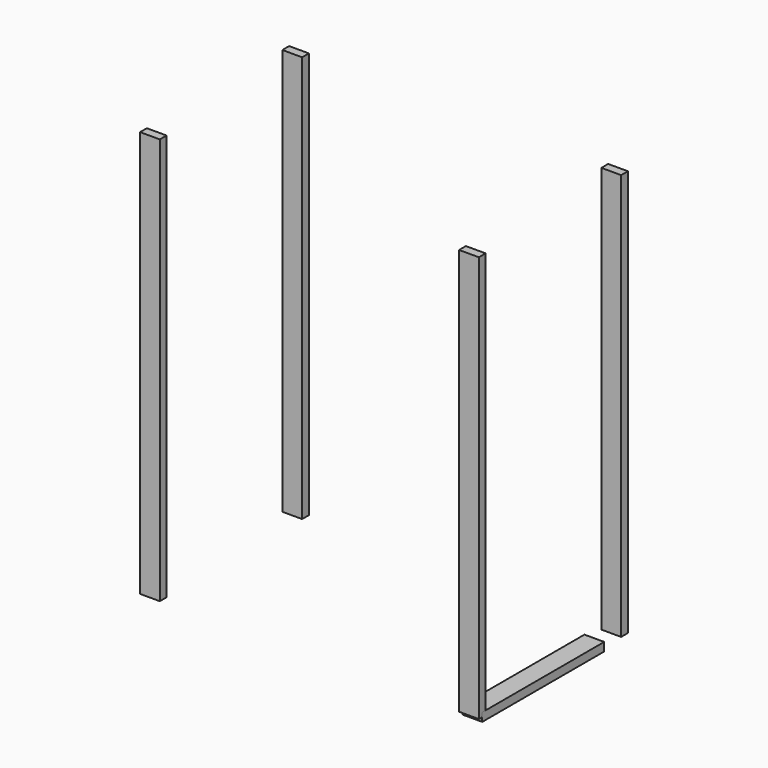
from build123d import *

# Parameters (mm, degrees)
F0_W     = 88.9
F0_H     = 38.1
F1_DEPTH = 1828.8
F6_W     = 88.9
F6_H     = 38.1
F7_DEPTH = 685.8


with BuildPart() as f1:
    # F0 (on Top) → F1 (new body)
    with BuildSketch(Plane.XY):
        Rectangle(F0_W, F0_H)
    extrude(amount=F1_DEPTH)


with BuildPart() as f3_1:
    # F3: copy of F1
    add(f1.part.moved(Location((0, 800.1, 0))))


with BuildPart() as f4_1:
    # F4: copy of F1
    add(f1.part.moved(Location((-1435.1, 0, 0))))


with BuildPart() as f5_1:
    # F5: copy of F3_1
    add(f3_1.part.moved(Location((-1435.1, 0, 0))))


with BuildPart() as f7:
    # F6 (on Front) → F7 (new body)
    with BuildSketch(Plane.XZ):
        Rectangle(F6_W, F6_H)
    extrude(amount=-F7_DEPTH)


solid = Compound([f1.part, f3_1.part, f4_1.part, f5_1.part, f7.part])
